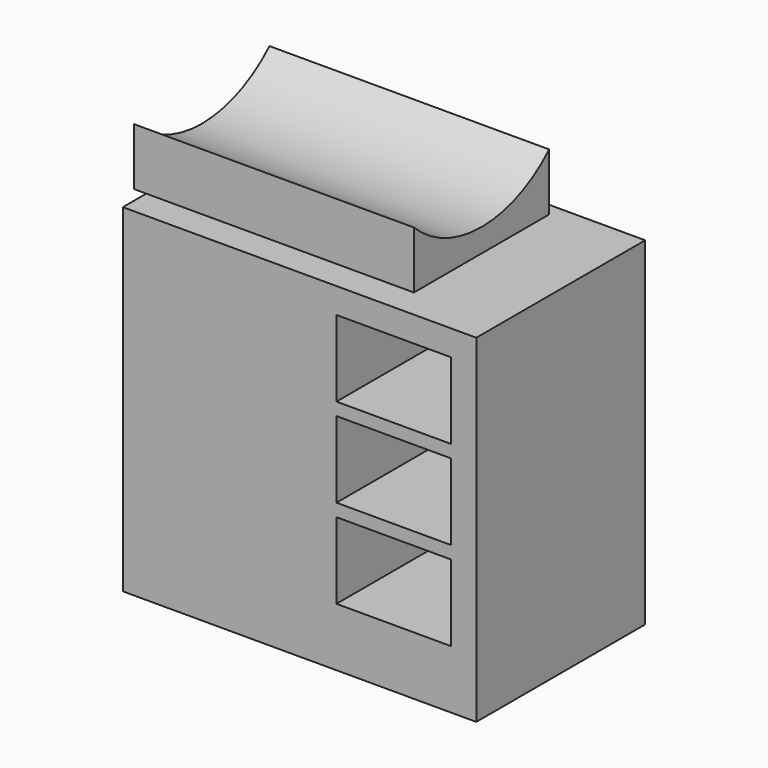
from build123d import *

# Parameters (mm, degrees)
F0_W     = 27.8
F0_H     = 16.6
F1_DEPTH = 26.6
F2_W     = 9
F2_H     = 6
F3_DEPTH = 16.6
F5_DEPTH = 22


with BuildPart() as f1:
    # F0 (on Top) → F1 (new body)
    with BuildSketch(Plane.XY):
        with Locations((13.9, 8.3)):
            Rectangle(F0_W, F0_H)
    extrude(amount=F1_DEPTH)

    # F2 (on face) → F3 (cut)
    with BuildSketch(Plane.XZ):
        with Locations((21.3, 21.6)):
            Rectangle(F2_W, F2_H)
        with Locations((21.3, 14.6)):
            Rectangle(F2_W, F2_H)
        with Locations((21.3, 7.6)):
            Rectangle(F2_W, F2_H)
    extrude(amount=-F3_DEPTH, mode=Mode.SUBTRACT)


with BuildPart() as f5:
    # F4 (on Right) → F5 (new body)
    with BuildSketch(Plane.YZ):
        with BuildLine():
            Line((1.116303, 27.39075), (14.416303, 27.39075))
            Line((14.416303, 27.39075), (14.416303, 31.89075))
            ThreePointArc((14.416303, 31.89075), (7.766303, 29.217626), (1.116303, 31.89075))
            Line((1.116303, 31.89075), (1.116303, 27.39075))
        make_face()
    extrude(amount=F5_DEPTH)


solid = Compound([f1.part, f5.part])
